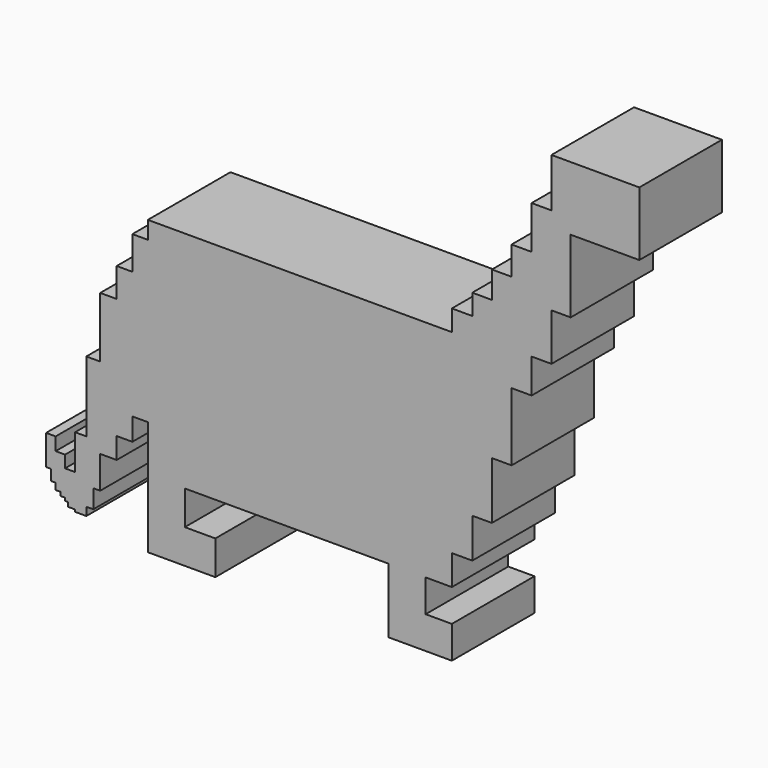
from build123d import *

# Parameters (mm, degrees)
F0_W     = 3.2269247949
F0_H     = 3.3961120509
F0_W_2   = 3.7572830241
F0_H_2   = 3.6561227749
F0_W_3   = 4.8879086971
F0_H_3   = 7.111184299
F0_W_4   = 1.7087571323
F0_H_4   = 4.5836493373
F0_W_5   = 16.8966799974
F0_H_5   = 15.7367065549
F0_W_6   = 1.7694719136
F0_H_6   = 1.0562464595
F0_W_7   = 1.1583864689
F0_H_7   = 0.9117685258
F0_W_8   = 1.178054139
F0_H_8   = 2.6293583214
F1_DEPTH = 25.4


with BuildPart() as f1:
    # F0 (on Front) → F1 (new body)
    with BuildSketch(Plane.XZ):
        Polygon((37.3980215415, -20.2466417104), (37.3980215415, 27.6115918206), (-37.3980215415, 27.6115918206), (-37.3980215415, 23.2865139842), (-37.3980215415, -16.2047892809), (-37.3980215415, -27.6115918206), (-28.3106606554, -27.6115918206), (21.8509719518, -27.6115918206), (30.9441719518, -27.6115918206), (37.3980215415, -27.6115918206), align=None)
        Polygon((37.3980215415, 32.7450931072), (37.3980215415, 27.6115918206), (37.3980215415, -20.2466417104), (42.4228385091, -20.2466417104), (42.4228385091, -10.5181215331), (42.4228385091, 32.7450931072), align=None)
        Polygon((-37.3980215415, -16.2047892809), (-37.3980215415, 23.2865139842), (-41.2078462541, 23.2865139842), (-41.2078462541, 15.1224471629), (-41.2078462541, -16.2047892809), align=None)
        Polygon((42.4228385091, 37.7946980298), (42.4228385091, 32.7450931072), (42.4228385091, -10.5181215331), (47.24393785, -10.5181215331), (47.24393785, 3.5339901224), (47.24393785, 37.7946980298), align=None)
        Polygon((30.9441719518, -35.5871918206), (30.9441719518, -27.6115918206), (21.8509719518, -27.6115918206), (21.8509719518, -35.5871918206), (21.8509719518, -43.5627918206), (30.9441719518, -43.5627918206), align=None)
        Polygon((-28.3106606554, -27.6115918206), (-37.3980215415, -27.6115918206), (-37.3980215415, -44.3883202384), (-28.3106606554, -44.3883202384), (-28.3106606554, -35.9999560295), align=None)
        Polygon((-41.2078462541, -21.7107832432), (-41.2078462541, -16.2047892809), (-41.2078462541, 15.1224471629), (-45.0683757663, 15.1224471629), (-45.0683757663, 7.9709775746), (-45.0683757663, -21.7107832432), align=None)
        Polygon((37.3980215415, -35.5871918206), (30.9441719518, -35.5871918206), (30.9441719518, -43.5627918206), (34.1710967466, -43.5627918206), (34.1710967466, -40.1666797698), (37.3980215415, -40.1666797698), align=None)
        Polygon((47.24393785, 44.3825013936), (47.24393785, 37.7946980298), (47.24393785, 3.5339901224), (52.0987957716, 3.5339901224), (52.0987957716, 20.2638655901), (52.0987957716, 44.3825013936), align=None)
        Polygon((-20.7960946072, -35.9999560295), (-28.3106606554, -35.9999560295), (-28.3106606554, -44.3883202384), (-24.5533776313, -44.3883202384), (-24.5533776313, -40.7321974635), (-20.7960946072, -40.7321974635), align=None)
        Polygon((-45.0683757663, -26.9003435969), (-45.0683757663, -21.7107832432), (-45.0683757663, 7.9709775746), (-49.1187684238, 7.9709775746), (-49.1187684238, -6.9015473127), (-49.1187684238, -26.9003435969), align=None)
        with Locations((35.7845591441, -41.8647357952)):
            Rectangle(F0_W, F0_H)
        Polygon((52.0987957716, 51.3773448765), (52.0987957716, 44.3825013936), (52.0987957716, 20.2638655901), (57.0190772414, 20.2638655901), (57.0190772414, 28.7094209343), (57.0190772414, 35.8206052333), (57.0190772414, 51.3773448765), align=None)
        with Locations((-22.6747361192, -42.5602588509)):
            Rectangle(F0_W_2, F0_H_2)
        Polygon((-49.1187684238, -34.8745509982), (-49.1187684238, -26.9003435969), (-49.1187684238, -6.9015473127), (-52.5362826884, -6.9015473127), (-52.5362826884, -24.2168344557), (-52.5362826884, -34.8745509982), (-50.8275255561, -34.8745509982), align=None)
        Polygon((57.0190772414, 61.949711293), (57.0190772414, 51.3773448765), (57.0190772414, 35.8206052333), (61.9069859385, 35.8206052333), (61.9069859385, 40.3074584901), (61.9069859385, 61.949711293), align=None)
        with Locations((59.46303159, 32.2650130838)):
            Rectangle(F0_W_3, F0_H_3)
        with Locations((-51.6819041222, -37.1663756669)):
            Rectangle(F0_W_4, F0_H_4)
        Polygon((-52.5362826884, -34.8745509982), (-52.5362826884, -24.2168344557), (-55.3043186665, -24.2168344557), (-55.3043186665, -32.844690606), (-55.3043186665, -39.8848950863), (-55.3043186665, -40.9411415458), (-55.3043186665, -41.4725467563), (-52.5362826884, -41.4725467563), (-52.5362826884, -39.4582003355), align=None)
        Polygon((61.9069859385, 73.9622488618), (61.9069859385, 61.949711293), (61.9069859385, 40.3074584901), (66.6303560138, 40.3074584901), (66.6303560138, 58.2255423069), (66.6303560138, 73.9622488618), align=None)
        Polygon((-55.3043186665, -39.8848950863), (-55.3043186665, -32.844690606), (-57.7685758471, -32.844690606), (-57.7685758471, -38.2937081158), (-57.7685758471, -39.2054766417), (-57.7685758471, -39.8848950863), (-57.07379058, -39.8848950863), align=None)
        with Locations((75.0786960125, 66.0938955843)):
            Rectangle(F0_W_5, F0_H_5)
        with Locations((-56.1890546232, -40.413018316)):
            Rectangle(F0_W_6, F0_H_6)
        Polygon((-57.7685758471, -38.2937081158), (-57.7685758471, -32.844690606), (-57.7685758471, -29.8693664372), (-60.0853487849, -29.8693664372), (-60.0853487849, -34.0815372765), (-60.0853487849, -36.7108955979), (-60.0853487849, -38.2937081158), (-58.926962316, -38.2937081158), align=None)
        with Locations((-58.3477690816, -38.7495923787)):
            Rectangle(F0_W_7, F0_H_7)
        Polygon((-60.0853487849, -34.0815372765), (-60.0853487849, -29.8693664372), (-60.0853487849, -26.6751870513), (-62.441457063, -26.6751870513), (-62.441457063, -34.0815372765), (-61.2634029239, -34.0815372765), align=None)
        with Locations((-60.6743758544, -35.3962164372)):
            Rectangle(F0_W_8, F0_H_8)
    extrude(amount=F1_DEPTH)


solid = f1.part
